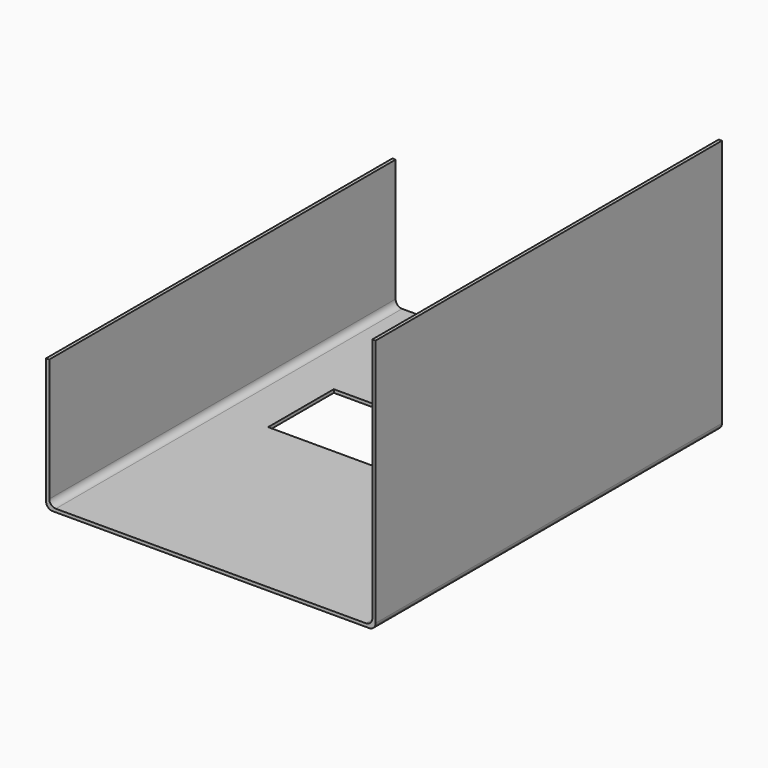
from build123d import *

# Parameters (mm, degrees)
F1_DEPTH = 170.18
F2_W     = 49.288719
F2_H     = 32.279059
F3_DEPTH = 25.4


with BuildPart() as f1:
    # F0 (on Front) → F1 (new body)
    with BuildSketch(Plane.XZ):
        with BuildLine():
            Line((-9.986188, 0), (0, 0))
            Line((0, 0), (114.473812, 0))
            ThreePointArc((114.473812, 0), (116.269863, 0.743949), (117.013812, 2.54))
            Line((117.013812, 2.54), (117.013812, 100.33))
            Line((117.013812, 100.33), (115.743812, 100.33))
            Line((115.743812, 100.33), (115.743812, 3.81))
            ThreePointArc((115.743812, 3.81), (114.999863, 2.013949), (113.203812, 1.27))
            Line((113.203812, 1.27), (-8.716188, 1.27))
            ThreePointArc((-8.716188, 1.27), (-10.512239, 2.013949), (-11.256188, 3.81))
            Line((-11.256188, 3.81), (-11.256188, 52.07))
            Line((-11.256188, 52.07), (-12.526188, 52.07))
            Line((-12.526188, 52.07), (-12.526188, 2.54))
            ThreePointArc((-12.526188, 2.54), (-11.782239, 0.743949), (-9.986188, 0))
        make_face()
    extrude(amount=-F1_DEPTH)

    # F2 (on face) → F3 (cut)
    with BuildSketch(Plane.XY.offset(1.27)):
        with Locations((32.944252, 99.213123)):
            Rectangle(F2_W, F2_H)
    extrude(amount=-F3_DEPTH, mode=Mode.SUBTRACT)


solid = f1.part
